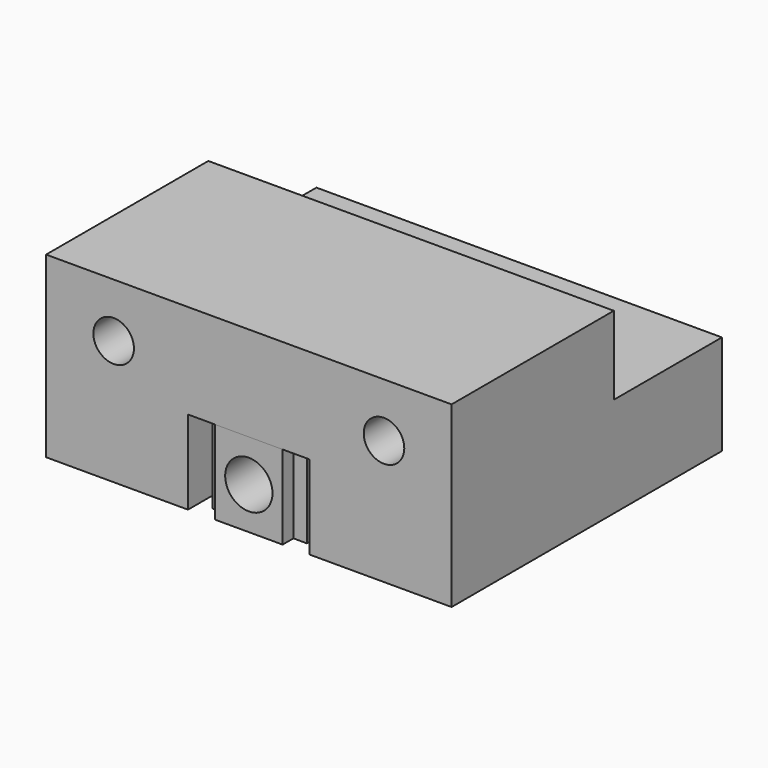
from build123d import *

# Parameters (mm, degrees)
F0_W      = 30
F0_H      = 7
F0_R      = 1.5
F1_DEPTH  = 25
F3_DEPTH  = 6.2
F4_DEPTH  = 6.2
F5_R      = 1.75
F6_DEPTH  = 15
F7_R      = 1.75
F8_DEPTH  = 7
F9_W      = 30
F9_H      = 5.8
F9_R      = 1.5
F10_DEPTH = 10


with BuildPart() as f1:
    # F0 (on Front) → F1 (new body)
    with BuildSketch(Plane.XZ):
        with Locations((0, 0.5)):
            Rectangle(F0_W, F0_H)
        with Locations((-10, 0)):
            Circle(F0_R, mode=Mode.SUBTRACT)
        with Locations((10, 0)):
            Circle(F0_R, mode=Mode.SUBTRACT)
    extrude(amount=F1_DEPTH)

    # F2 (on face) → F4 (join)
    with BuildSketch(Plane(origin=(0, 0, -3), x_dir=(1, 0, 0), z_dir=(0, 0, -1))):
        with BuildLine():
            Line((-15, 0), (-13.5, 0))
            ThreePointArc((-13.5, 0), (-7.136039, 2.636039), (-4.5, 9))
            Line((-4.5, 9), (-4.5, 25))
            Line((-4.5, 25), (-15, 25))
            Line((-15, 25), (-15, 0))
        make_face()
        with BuildLine():
            Line((4.5, 25), (4.5, 9))
            ThreePointArc((4.5, 9), (7.136039, 2.636039), (13.5, 0))
            Line((13.5, 0), (15, 0))
            Line((15, 0), (15, 25))
            Line((15, 25), (4.5, 25))
        make_face()
    extrude(amount=F4_DEPTH)

    # F7 (on face) → F8 (cut)
    with BuildSketch(Plane(origin=(0, 0, -9.2), x_dir=(1, 0, 0), z_dir=(0, 0, -1))):
        with Locations((10.5, 7)):
            Circle(F7_R)
        with Locations((10.5, 19)):
            Circle(F7_R)
        with Locations((-10.5, 7)):
            Circle(F7_R)
        with Locations((-10.5, 19)):
            Circle(F7_R)
    extrude(amount=-F8_DEPTH, mode=Mode.SUBTRACT)

    # F9 (on face) → F10 (cut)
    with BuildSketch(Plane(origin=(0, 0, 0), x_dir=(-1, 0, 0), z_dir=(0, 1, 0))):
        with Locations((0, 1.1)):
            Rectangle(F9_W, F9_H)
        with Locations((-10, 0)):
            Circle(F9_R, mode=Mode.SUBTRACT)
        with Locations((10, 0)):
            Circle(F9_R, mode=Mode.SUBTRACT)
    extrude(amount=-F10_DEPTH, mode=Mode.SUBTRACT)


with BuildPart() as f3:
    # F2 (on face) → F3 (new body)
    with BuildSketch(Plane(origin=(0, 0, -3), x_dir=(1, 0, 0), z_dir=(0, 0, -1))):
        with BuildLine():
            ThreePointArc((-2.5, 9), (-3.738594, 3.929009), (-7.175445, 0))
            Line((-7.175445, 0), (7.175445, 0))
            ThreePointArc((7.175445, 0), (3.738594, 3.929009), (2.5, 9))
            Line((2.5, 9), (3.5, 9))
            Line((3.5, 9), (3.5, 10))
            Line((3.5, 10), (2.5, 10))
            Line((2.5, 10), (2.5, 11))
            Line((2.5, 11), (3.5, 11))
            Line((3.5, 11), (3.5, 12))
            Line((3.5, 12), (2.5, 12))
            Line((2.5, 12), (2.5, 13))
            Line((2.5, 13), (3.5, 13))
            Line((3.5, 13), (3.5, 14))
            Line((3.5, 14), (2.5, 14))
            Line((2.5, 14), (2.5, 15))
            Line((2.5, 15), (3.5, 15))
            Line((3.5, 15), (3.5, 16))
            Line((3.5, 16), (2.5, 16))
            Line((2.5, 16), (2.5, 17))
            Line((2.5, 17), (3.5, 17))
            Line((3.5, 17), (3.5, 18))
            Line((3.5, 18), (2.5, 18))
            Line((2.5, 18), (2.5, 19))
            Line((2.5, 19), (3.5, 19))
            Line((3.5, 19), (3.5, 20))
            Line((3.5, 20), (2.5, 20))
            Line((2.5, 20), (2.5, 21))
            Line((2.5, 21), (3.5, 21))
            Line((3.5, 21), (3.5, 22))
            Line((3.5, 22), (2.5, 22))
            Line((2.5, 22), (2.5, 23))
            Line((2.5, 23), (3.5, 23))
            Line((3.5, 23), (3.5, 24))
            Line((3.5, 24), (2.5, 24))
            Line((2.5, 24), (2.5, 25))
            Line((2.5, 25), (-2.5, 25))
            Line((-2.5, 25), (-2.5, 24))
            Line((-2.5, 24), (-3.5, 24))
            Line((-3.5, 24), (-3.5, 23))
            Line((-3.5, 23), (-2.5, 23))
            Line((-2.5, 23), (-2.5, 22))
            Line((-2.5, 22), (-3.5, 22))
            Line((-3.5, 22), (-3.5, 21))
            Line((-3.5, 21), (-2.5, 21))
            Line((-2.5, 21), (-2.5, 20))
            Line((-2.5, 20), (-3.5, 20))
            Line((-3.5, 20), (-3.5, 19))
            Line((-3.5, 19), (-2.5, 19))
            Line((-2.5, 19), (-2.5, 18))
            Line((-2.5, 18), (-3.5, 18))
            Line((-3.5, 18), (-3.5, 17))
            Line((-3.5, 17), (-2.5, 17))
            Line((-2.5, 17), (-2.5, 16))
            Line((-2.5, 16), (-3.5, 16))
            Line((-3.5, 16), (-3.5, 15))
            Line((-3.5, 15), (-2.5, 15))
            Line((-2.5, 15), (-2.5, 14))
            Line((-2.5, 14), (-3.5, 14))
            Line((-3.5, 14), (-3.5, 13))
            Line((-3.5, 13), (-2.5, 13))
            Line((-2.5, 13), (-2.5, 12))
            Line((-2.5, 12), (-3.5, 12))
            Line((-3.5, 12), (-3.5, 11))
            Line((-3.5, 11), (-2.5, 11))
            Line((-2.5, 11), (-2.5, 10))
            Line((-2.5, 10), (-3.5, 10))
            Line((-3.5, 10), (-3.5, 9))
            Line((-3.5, 9), (-2.5, 9))
        make_face()
    extrude(amount=F3_DEPTH)

    # F5 (on face) → F6 (cut)
    with BuildSketch(Plane.XZ.offset(25)):
        with Locations((0, -6.1)):
            Circle(F5_R)
    extrude(amount=-F6_DEPTH, mode=Mode.SUBTRACT)


solid = Compound([f1.part, f3.part])
